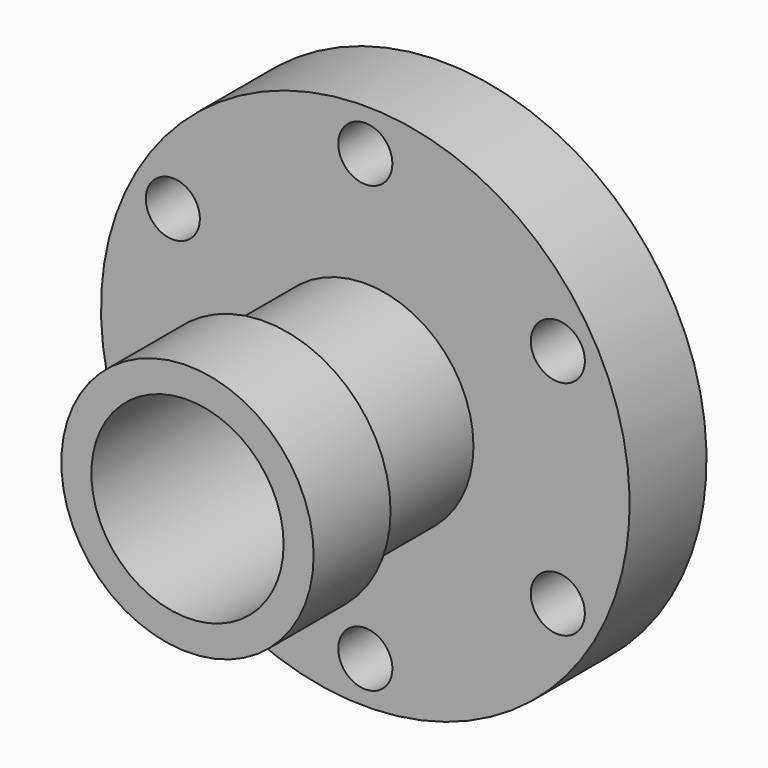
from build123d import *

# Parameters (mm, degrees)
SKETCH015_R            = 14.2875
SKETCH015_R_2          = 12.7
PAD015_DEPTH           = 29.21
SKETCH016_R            = 16.66875
SKETCH016_R_2          = 12.7
PAD016_DEPTH           = 12.7
SKETCH014_R            = 3.571875
PAD014_DEPTH           = 13
SKETCH013_R            = 34.925
SKETCH013_R_2          = 14.2875
PAD013_DEPTH           = 12.7
CUT006_PLACEMENT_ANGLE = 60
CUT007_PLACEMENT_ANGLE = 60
CUT008_PLACEMENT_ANGLE = 60
CUT009_PLACEMENT_ANGLE = 60
CUT010_PLACEMENT_ANGLE = 60


with BuildPart() as body015:
    # Sketch015 → Pad015 (new body)
    with BuildSketch(Plane.XZ):
        Circle(SKETCH015_R)
        Circle(SKETCH015_R_2, mode=Mode.SUBTRACT)
    extrude(amount=PAD015_DEPTH)


with BuildPart() as body015_1:
    # Body015 placement: moved
    add(body015.part.moved(Location((0, -0.16, 0))))


with BuildPart() as body016:
    # Sketch016 → Pad016 (new body)
    with BuildSketch(Plane.XZ):
        Circle(SKETCH016_R)
        Circle(SKETCH016_R_2, mode=Mode.SUBTRACT)
    extrude(amount=PAD016_DEPTH)


with BuildPart() as body016_1:
    # Body016 placement: moved
    add(body016.part.moved(Location((0, -29.37, 0))))


with BuildPart() as body014:
    # Sketch014 → Pad014 (new body)
    with BuildSketch(Plane.XZ):
        with Locations((0, 29.36875)):
            Circle(SKETCH014_R)
    extrude(amount=PAD014_DEPTH)


with BuildPart() as fusion001:
    # Sketch013 → Pad013 (new body)
    with BuildSketch(Plane.XZ):
        Circle(SKETCH013_R)
        Circle(SKETCH013_R_2, mode=Mode.SUBTRACT)
    extrude(amount=PAD013_DEPTH)

    # Cut006: cut Body014
    add(body014.part, mode=Mode.SUBTRACT)


with BuildPart() as fusion001_1:
    # Cut006 placement: moved
    add(fusion001.part.rotate(Axis((0, 0, 0), (0, 1, 0)), CUT006_PLACEMENT_ANGLE))

    # Cut007: cut Body014
    add(body014.part, mode=Mode.SUBTRACT)


with BuildPart() as fusion001_2:
    # Cut007 placement: moved
    add(fusion001_1.part.rotate(Axis((0, 0, 0), (0, 1, 0)), CUT007_PLACEMENT_ANGLE))

    # Cut008: cut Body014
    add(body014.part, mode=Mode.SUBTRACT)


with BuildPart() as fusion001_3:
    # Cut008 placement: moved
    add(fusion001_2.part.rotate(Axis((0, 0, 0), (0, 1, 0)), CUT008_PLACEMENT_ANGLE))

    # Cut009: cut Body014
    add(body014.part, mode=Mode.SUBTRACT)


with BuildPart() as fusion001_4:
    # Cut009 placement: moved
    add(fusion001_3.part.rotate(Axis((0, 0, 0), (0, 1, 0)), CUT009_PLACEMENT_ANGLE))

    # Cut010: cut Body014
    add(body014.part, mode=Mode.SUBTRACT)


with BuildPart() as fusion001_5:
    # Cut010 placement: moved
    add(fusion001_4.part.rotate(Axis((0, 0, 0), (0, 1, 0)), CUT010_PLACEMENT_ANGLE))

    # Cut011: cut Body014
    add(body014.part, mode=Mode.SUBTRACT)

    # Fusion001: union Body015, Body016
    add(body015_1.part)
    add(body016_1.part)


solid = fusion001_5.part
